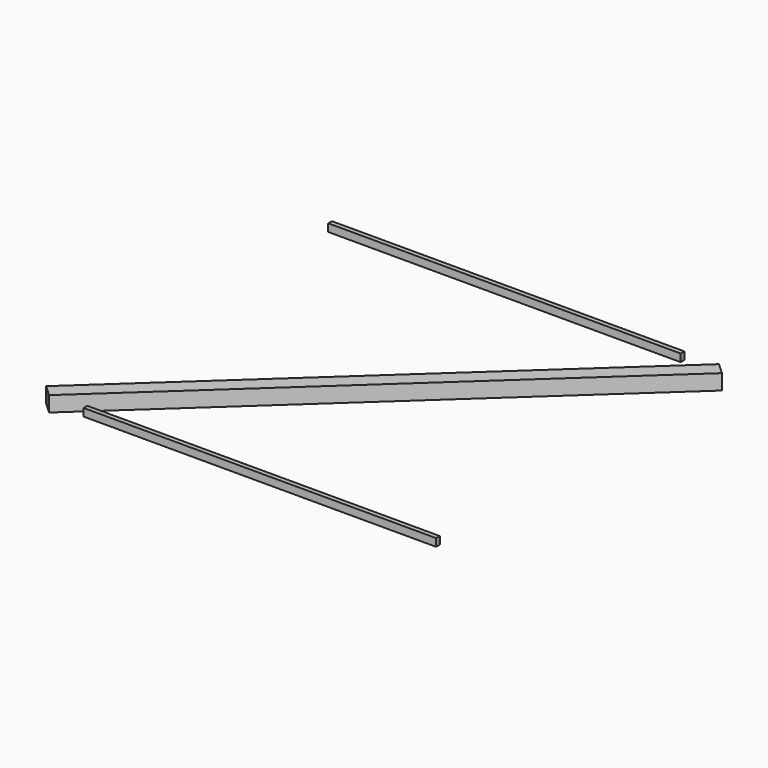
from build123d import *

# Parameters (mm, degrees)
F1_DEPTH = 100
F2_W     = 2300
F2_H     = 30
F3_DEPTH = 50
F4_DEPTH = 50


with BuildPart() as f1:
    # F0 (on Top) → F1 (new body)
    with BuildSketch(Plane.XY):
        Polygon((1912.333639, 2935.029772), (1875.475709, 2969.052476), (-650.808432, 637.097883), (-613.950503, 603.075179), align=None)
        Polygon((1949.191568, 2901.007068), (1912.333639, 2935.029772), (-613.950503, 603.075179), (-577.092574, 569.052476), align=None)
    extrude(amount=-F1_DEPTH)


with BuildPart() as f3:
    # F2 (on Top) → F3 (new body)
    with BuildSketch(Plane.XY):
        with Locations((499.191568, 2954.052476)):
            Rectangle(F2_W, F2_H)
    extrude(amount=-F3_DEPTH)


with BuildPart() as f4:
    # F2 (on Top) → F4 (new body)
    with BuildSketch(Plane.XY):
        with Locations((799.191568, 584.052476)):
            Rectangle(F2_W, F2_H)
    extrude(amount=-F4_DEPTH)


solid = Compound([f1.part, f3.part, f4.part])
